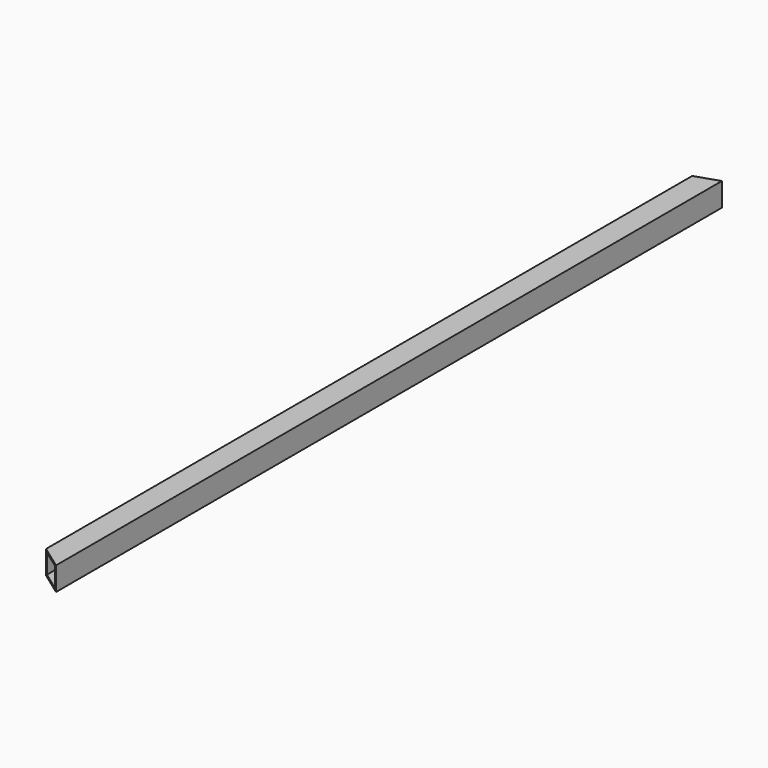
from build123d import *

# Parameters (mm, degrees)
SKETCH_W        = 31.75
SKETCH_H        = 31.75
SKETCH_W_2      = 26.2128
SKETCH_H_2      = 26.2128
PAD_DEPTH       = 1124.5
POCKET_DEPTH    = 31.75
POCKET001_DEPTH = 31.75


with BuildPart() as part:
    # Sketch → Pad (new body)
    with BuildSketch(Plane.XZ):
        Rectangle(SKETCH_W, SKETCH_H)
        Rectangle(SKETCH_W_2, SKETCH_H_2, mode=Mode.SUBTRACT)
    extrude(amount=PAD_DEPTH)

    # Sketch001 → Pocket (cut)
    with BuildSketch(Plane(origin=(0, 0, 15.875), x_dir=(-1, 0, 0), z_dir=(0, 0, 1))):
        Polygon((15.875, 0), (-15.875, 0), (15.875, 10.583303), align=None)
    extrude(amount=-POCKET_DEPTH, mode=Mode.SUBTRACT)

    # Sketch002 → Pocket001 (cut)
    with BuildSketch(Plane(origin=(0, 0, 15.875), x_dir=(-1, 0, 0), z_dir=(0, 0, 1))):
        Polygon((-15.875, 1124.5), (15.875, 1124.5), (15.875, 1101.615832), align=None)
    extrude(amount=-POCKET001_DEPTH, mode=Mode.SUBTRACT)


solid = part.part
